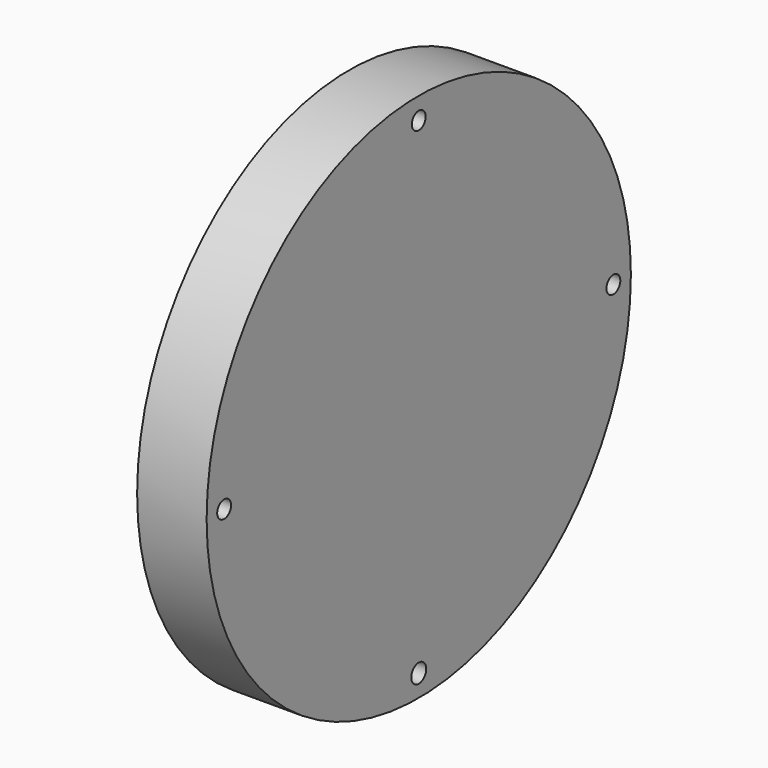
from build123d import *

# Parameters (mm, degrees)
F0_R     = 48.449945
F1_DEPTH = 12.7
F2_R     = 11.427041
F3_DEPTH = 15.748
F4_R     = 1.5875
F4_R_2   = 1.71099
F5_DEPTH = 12.7


with BuildPart() as f1:
    # F0 (on Right) → F1 (new body)
    with BuildSketch(Plane.YZ):
        Circle(F0_R)
    extrude(amount=F1_DEPTH)

    # F2 (on face) → F3 (join)
    with BuildSketch(Plane(origin=(0, 0, 0), x_dir=(0, -1, 0), z_dir=(-1, 0, 0))):
        Circle(F2_R)
    extrude(amount=F3_DEPTH)

    # F4 (on face) → F5 (cut)
    with BuildSketch(Plane(origin=(0, 0, 0), x_dir=(0, -1, 0), z_dir=(-1, 0, 0))):
        with Locations((0, 44.45)):
            Circle(F4_R)
        with Locations((0, -44.45)):
            Circle(F4_R_2)
        with Locations((44.45, 0)):
            Circle(F4_R)
        with Locations((-44.45, 0)):
            Circle(F4_R)
    extrude(amount=-F5_DEPTH, mode=Mode.SUBTRACT)


solid = f1.part
